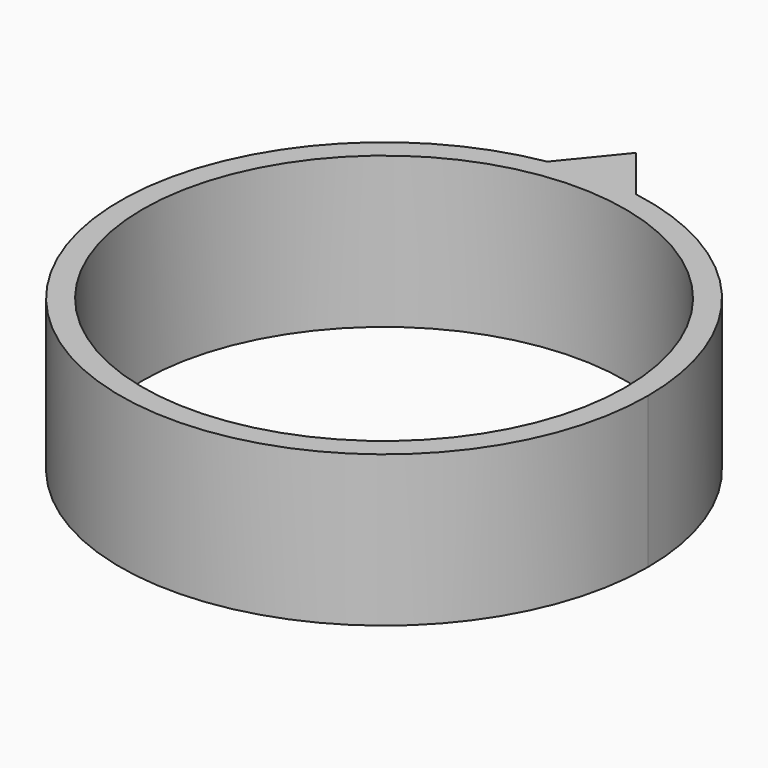
from build123d import *

# Parameters (mm, degrees)
F1_DEPTH = 10
F2_D     = 32


with BuildPart() as f1:
    # F0 (on Top) → F1 (new body)
    with BuildSketch(Plane.XY):
        with BuildLine():
            ThreePointArc((-2.9685188918, 17.2463878998), (-11.2761012631, -13.382807639), (17.5, 0))
            ThreePointArc((17.5, 0), (13.3611305036, 11.3017782523), (2.9022638098, 17.257661046))
            ThreePointArc((2.9022638098, 17.257661046), (-0.0336036446, 17.499967737), (-2.9685188918, 17.2463878998))
        make_face()
        with BuildLine():
            ThreePointArc((-2.9685188918, 17.2463878998), (-0.0336036446, 17.499967737), (2.9022638098, 17.257661046))
            Line((2.9022638098, 17.257661046), (0, 20.8948743002))
            Line((0, 20.8948743002), (-2.9685188918, 17.2463878998))
        make_face()
    extrude(amount=F1_DEPTH)

    # F2 (through all)
    with Locations(Plane(origin=(0, 0, 0), x_dir=(1, 0, 0), z_dir=(0, 0, -1))):
        with Locations((0, 0)):
            Hole(F2_D / 2)


solid = f1.part
